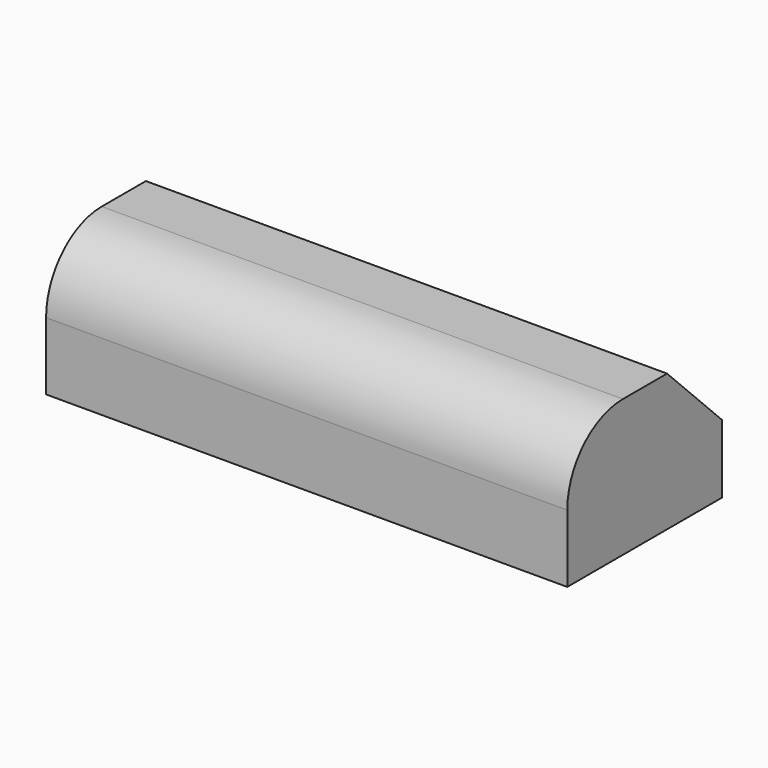
from build123d import *

# Parameters (mm, degrees)
F0_W     = 96.524141
F0_H     = 35.803635
F1_DEPTH = 25.4
F2_R     = 12.877415
F3_SIZE  = 12.7


with BuildPart() as f1:
    # F0 (on Top) → F1 (new body)
    with BuildSketch(Plane.XY):
        with Locations((-13.090502, -17.901817)):
            Rectangle(F0_W, F0_H)
    extrude(amount=F1_DEPTH)

    # F2
    f2_edges = [f1.edges().sort_by_distance(p)[0] for p in [
        (-13.090502, -35.803635, 25.4),
    ]]
    fillet(f2_edges, radius=F2_R)

    # F3
    f3_edges = [f1.edges().sort_by_distance(p)[0] for p in [
        (-13.090502, 0, 25.4),
    ]]
    chamfer(f3_edges, length=F3_SIZE)


solid = f1.part
